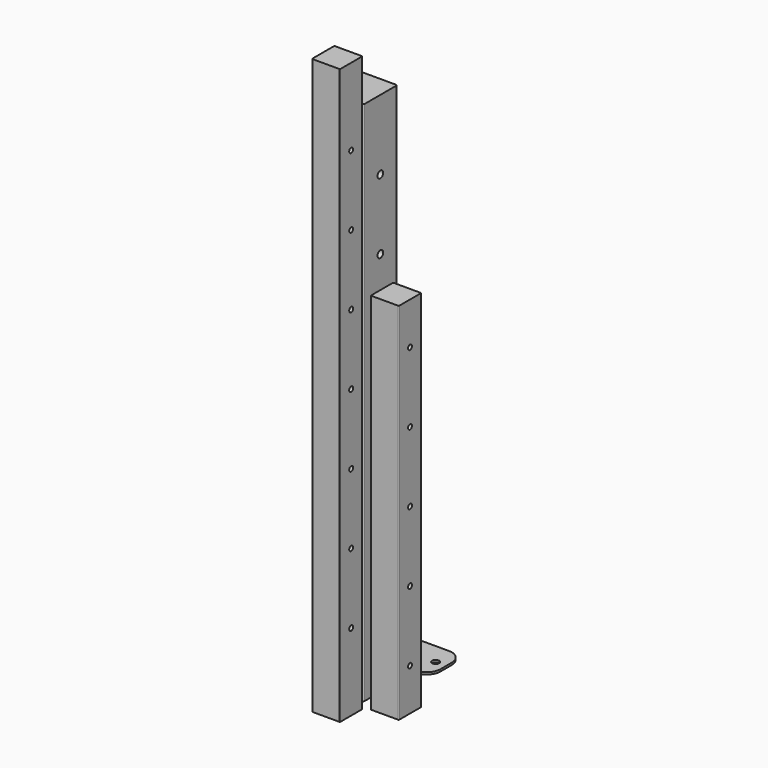
from build123d import *

# Parameters (mm, degrees)
F1_DEPTH  = 750
F3_DEPTH  = 520
F5_DEPTH  = 820
F6_R      = 5
F7_DEPTH  = 118.2429433809
F8_R      = 5
F9_DEPTH  = 3
F10_R     = 3.5
F11_DEPTH = 108.7418225238
F12_R     = 3.5
F13_DEPTH = 156.7649812082


with BuildPart() as f1:
    # F0 (on Top) → F1 (new body)
    with BuildSketch(Plane.XY):
        with BuildLine():
            Line((-54.9806970424, 82.8186849058), (-110.9806970424, 82.8186849058))
            ThreePointArc((-110.9806970424, 82.8186849058), (-112.3949106048, 82.2328984681), (-112.9806970424, 80.8186849058))
            Line((-112.9806970424, 80.8186849058), (-112.9806970424, 24.8186849058))
            ThreePointArc((-112.9806970424, 24.8186849058), (-112.3949106048, 23.4044713434), (-110.9806970424, 22.8186849058))
            Line((-110.9806970424, 22.8186849058), (-54.9806970424, 22.8186849058))
            ThreePointArc((-54.9806970424, 22.8186849058), (-53.56648348, 23.4044713434), (-52.9806970424, 24.8186849058))
            Line((-52.9806970424, 24.8186849058), (-52.9806970424, 80.8186849058))
            ThreePointArc((-52.9806970424, 80.8186849058), (-53.56648348, 82.2328984681), (-54.9806970424, 82.8186849058))
        make_face()
    extrude(amount=F1_DEPTH)

    # F6 (on face) → F7 (cut, through all)
    with BuildSketch(Plane(origin=(-112.9806970424, 0, 0), x_dir=(0, -1, 0), z_dir=(-1, 0, 0))):
        with Locations((-52.8186849058, 650)):
            Circle(F6_R)
        with Locations((-52.8186849058, 550)):
            Circle(F6_R)
        with Locations((-52.8186849058, 450)):
            Circle(F6_R)
        with Locations((-52.8186849058, 350)):
            Circle(F6_R)
    extrude(amount=-F7_DEPTH, mode=Mode.SUBTRACT)


with BuildPart() as f3:
    # F2 (on Top) → F3 (new body)
    with BuildSketch(Plane.XY):
        with BuildLine():
            Line((4.2612463385, 52.912817955), (-33.7387536615, 52.912817955))
            ThreePointArc((-33.7387536615, 52.912817955), (-34.4458604427, 52.6199247362), (-34.7387536615, 51.912817955))
            Line((-34.7387536615, 51.912817955), (-34.7387536615, 13.912817955))
            ThreePointArc((-34.7387536615, 13.912817955), (-34.4458604427, 13.2057111738), (-33.7387536615, 12.912817955))
            Line((-33.7387536615, 12.912817955), (4.2612463385, 12.912817955))
            ThreePointArc((4.2612463385, 12.912817955), (4.9683531197, 13.2057111738), (5.2612463385, 13.912817955))
            Line((5.2612463385, 13.912817955), (5.2612463385, 51.912817955))
            ThreePointArc((5.2612463385, 51.912817955), (4.9683531197, 52.6199247362), (4.2612463385, 52.912817955))
        make_face()
    extrude(amount=F3_DEPTH)

    # F12 (on face) → F13 (cut, through all)
    with BuildSketch(Plane.YZ.offset(5.2612463385)):
        with Locations((32.912817955, 260)):
            Circle(F12_R)
        with Locations((32.912817955, 360)):
            Circle(F12_R)
        with Locations((32.912817955, 460)):
            Circle(F12_R)
        with Locations((32.912817955, 160)):
            Circle(F12_R)
        with Locations((32.912817955, 60)):
            Circle(F12_R)
    extrude(amount=-F13_DEPTH, mode=Mode.SUBTRACT)


with BuildPart() as f5:
    # F4 (on Top) → F5 (new body)
    with BuildSketch(Plane.XY):
        with BuildLine():
            Line((-43.7619123459, 7.984181866), (-81.7619123459, 7.984181866))
            ThreePointArc((-81.7619123459, 7.984181866), (-82.4690191271, 7.6912886472), (-82.7619123459, 6.984181866))
            Line((-82.7619123459, 6.984181866), (-82.7619123459, -31.015818134))
            ThreePointArc((-82.7619123459, -31.015818134), (-82.4690191271, -31.7229249151), (-81.7619123459, -32.015818134))
            Line((-81.7619123459, -32.015818134), (-43.7619123459, -32.015818134))
            ThreePointArc((-43.7619123459, -32.015818134), (-43.0548055647, -31.7229249151), (-42.7619123459, -31.015818134))
            Line((-42.7619123459, -31.015818134), (-42.7619123459, 6.984181866))
            ThreePointArc((-42.7619123459, 6.984181866), (-43.0548055647, 7.6912886472), (-43.7619123459, 7.984181866))
        make_face()
    extrude(amount=F5_DEPTH)

    # F10 (on face) → F11 (cut, through all)
    with BuildSketch(Plane.YZ.offset(-42.7619123459)):
        with Locations((-12.015818134, 410)):
            Circle(F10_R)
        with Locations((-12.015818134, 510)):
            Circle(F10_R)
        with Locations((-12.015818134, 610)):
            Circle(F10_R)
        with Locations((-12.015818134, 710)):
            Circle(F10_R)
        with Locations((-12.015818134, 310)):
            Circle(F10_R)
        with Locations((-12.015818134, 210)):
            Circle(F10_R)
        with Locations((-12.015818134, 110)):
            Circle(F10_R)
    extrude(amount=-F11_DEPTH, mode=Mode.SUBTRACT)


with BuildPart() as f9:
    # F8 (on Top) → F9 (new body)
    with BuildSketch(Plane.XY):
        with BuildLine():
            Line((-51.5027348697, 173.3856686354), (-131.5027348697, 173.3856686354))
            ThreePointArc((-131.5027348697, 173.3856686354), (-145.6448704934, 167.5278042591), (-151.5027348697, 153.3856686354))
            Line((-151.5027348697, 153.3856686354), (-151.5027348697, 133.3856686354))
            ThreePointArc((-151.5027348697, 133.3856686354), (-145.6448704934, 119.2435330116), (-131.5027348697, 113.3856686354))
            Line((-131.5027348697, 113.3856686354), (-51.5027348697, 113.3856686354))
            ThreePointArc((-51.5027348697, 113.3856686354), (-37.360599246, 119.2435330116), (-31.5027348697, 133.3856686354))
            Line((-31.5027348697, 133.3856686354), (-31.5027348697, 153.3856686354))
            ThreePointArc((-31.5027348697, 153.3856686354), (-37.360599246, 167.5278042591), (-51.5027348697, 173.3856686354))
        make_face()
        with Locations((-46.5027348697, 143.3856686354)):
            Circle(F8_R, mode=Mode.SUBTRACT)
        with Locations((-136.5027348697, 143.3856686354)):
            Circle(F8_R, mode=Mode.SUBTRACT)
    extrude(amount=F9_DEPTH)


solid = Compound([f1.part, f3.part, f5.part, f9.part])
